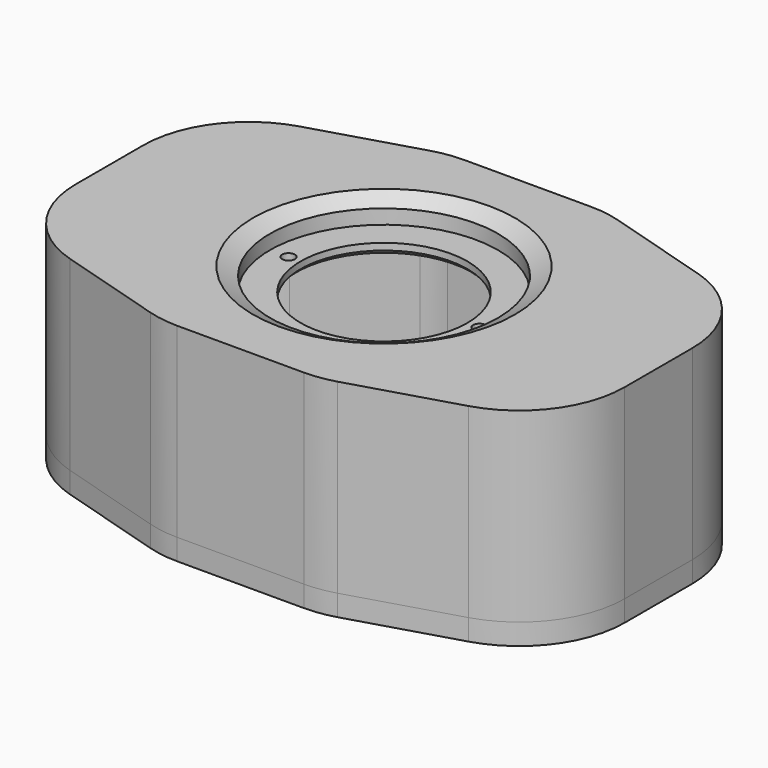
from build123d import *

# Parameters (mm, degrees)
PAD002_DEPTH    = 5
SKETCH019_R     = 35
PAD003_DEPTH    = 3
PAD001_DEPTH    = 39.1
SKETCH018_R     = 27
POCKET_DEPTH    = 5.4
SKETCH020_R     = 19.75
SKETCH020_R_2   = 1.5
POCKET001_DEPTH = 10
CHAMFER_SIZE2   = 2
CHAMFER_SIZE    = 4
CHAMFER001_SIZE = 1
PAD_DEPTH       = 5


with BuildPart() as body:
    # Sketch017 (on Sketch) → Pad002 (new body)
    with BuildSketch(Plane.XY.offset(44.1)):
        with BuildLine():
            ThreePointArc((-47.183697, 33.945657), (-60.057323, 24.923263), (-65, 10))
            Line((-65, -10), (-65, 10))
            ThreePointArc((-65, -10), (-60.057323, -24.923263), (-47.183697, -33.945657))
            Line((-22.183697, -41.445657), (-47.183697, -33.945657))
            ThreePointArc((-22.183697, -41.445657), (-18.630329, -42.23501), (-15, -42.5))
            Line((15, -42.5), (-15, -42.5))
            ThreePointArc((15, -42.5), (18.630329, -42.23501), (22.183697, -41.445657))
            Line((47.183697, -33.945657), (22.183697, -41.445657))
            ThreePointArc((47.183697, -33.945657), (60.057323, -24.923263), (65, -10))
            Line((65, 10), (65, -10))
            ThreePointArc((65, 10), (60.057323, 24.923263), (47.183697, 33.945657))
            Line((22.183697, 41.445657), (47.183697, 33.945657))
            ThreePointArc((22.183697, 41.445657), (18.630329, 42.23501), (15, 42.5))
            Line((-15, 42.5), (15, 42.5))
            ThreePointArc((-15, 42.5), (-18.630329, 42.23501), (-22.183697, 41.445657))
            Line((-47.183697, 33.945657), (-22.183697, 41.445657))
        make_face()
    extrude(amount=PAD002_DEPTH)

    # Sketch019 (on Face17 of Pad002) → Pad003 (join)
    with BuildSketch(Plane(origin=(0, 0, 44.1), x_dir=(1, 0, 0), z_dir=(0, 0, -1))):
        Circle(SKETCH019_R)
    extrude(amount=PAD003_DEPTH)

    # Sketch015 (on Sketch) → Pad001 (join)
    with BuildSketch(Plane.XY.offset(5)):
        with BuildLine():
            ThreePointArc((-47.183697, 33.945657), (-60.057323, 24.923263), (-65, 10))
            Line((-65, -10), (-65, 10))
            ThreePointArc((-65, -10), (-60.057323, -24.923263), (-47.183697, -33.945657))
            Line((-22.183697, -41.445657), (-47.183697, -33.945657))
            ThreePointArc((-22.183697, -41.445657), (-18.630329, -42.23501), (-15, -42.5))
            Line((15, -42.5), (-15, -42.5))
            ThreePointArc((15, -42.5), (18.630329, -42.23501), (22.183697, -41.445657))
            Line((47.183697, -33.945657), (22.183697, -41.445657))
            ThreePointArc((47.183697, -33.945657), (60.057323, -24.923263), (65, -10))
            Line((65, 10), (65, -10))
            ThreePointArc((65, 10), (60.057323, 24.923263), (47.183697, 33.945657))
            Line((22.183697, 41.445657), (47.183697, 33.945657))
            ThreePointArc((22.183697, 41.445657), (18.630329, 42.23501), (15, 42.5))
            Line((-15, 42.5), (15, 42.5))
            ThreePointArc((-15, 42.5), (-18.630329, 42.23501), (-22.183697, 41.445657))
            Line((-47.183697, 33.945657), (-22.183697, 41.445657))
        make_face()
        with BuildLine():
            Line((-45.746958, 29.156526), (-20.746958, 36.656526))
            ThreePointArc((-15, 37.5), (-17.904263, 37.288008), (-20.746958, 36.656526))
            Line((-15, 37.5), (15, 37.5))
            ThreePointArc((20.746958, 36.656526), (17.904263, 37.288008), (15, 37.5))
            Line((20.746958, 36.656526), (45.746958, 29.156526))
            ThreePointArc((60, 10), (56.045859, 21.938611), (45.746958, 29.156526))
            Line((60, 10), (60, -10))
            ThreePointArc((45.746958, -29.156526), (56.045859, -21.938611), (60, -10))
            Line((45.746958, -29.156526), (20.746958, -36.656526))
            ThreePointArc((15, -37.5), (17.904263, -37.288008), (20.746958, -36.656526))
            Line((15, -37.5), (-15, -37.5))
            ThreePointArc((-20.746958, -36.656526), (-17.904263, -37.288008), (-15, -37.5))
            Line((-20.746958, -36.656526), (-45.746958, -29.156526))
            ThreePointArc((-60, -10), (-56.045859, -21.938611), (-45.746958, -29.156526))
            Line((-60, -10), (-60, 10))
            ThreePointArc((-45.746958, 29.156526), (-56.045859, 21.938611), (-60, 10))
        make_face(mode=Mode.SUBTRACT)
    extrude(amount=PAD001_DEPTH)

    # Sketch018 (on Face18 of Pad002) → Pocket (cut)
    with BuildSketch(Plane.XY.offset(49.1)):
        Circle(SKETCH018_R)
    extrude(amount=-POCKET_DEPTH, mode=Mode.SUBTRACT)

    # Sketch020 (on Face52 of Pocket) → Pocket001 (cut)
    with BuildSketch(Plane.XY.offset(43.7)):
        Circle(SKETCH020_R)
        with Locations((-22.6, 0)):
            Circle(SKETCH020_R_2)
        with Locations((22.6, 0)):
            Circle(SKETCH020_R_2)
    extrude(amount=-POCKET001_DEPTH, mode=Mode.SUBTRACT)

    # Chamfer
    chamfer_edges = [body.edges().sort_by_distance(p)[0] for p in [
        (-27, 0, 49.1),
    ]]
    chamfer_side = body.faces().sort_by_distance((-58.811184, 23.996097, 49.1))[0]
    chamfer(chamfer_edges, length=CHAMFER_SIZE, length2=CHAMFER_SIZE2, reference=chamfer_side)

    # Chamfer001
    chamfer001_edges = [body.edges().sort_by_distance(p)[0] for p in [
        (-19.75, 0, 41.1),
    ]]
    chamfer(chamfer001_edges, length=CHAMFER001_SIZE)


with BuildPart() as baseplate:
    # Sketch023 (on Sketch) → Pad (new body)
    with BuildSketch(Plane.XY):
        with BuildLine():
            ThreePointArc((-47.183697, 33.945657), (-60.057323, 24.923263), (-65, 10))
            Line((-65, -10), (-65, 10))
            ThreePointArc((-65, -10), (-60.057323, -24.923263), (-47.183697, -33.945657))
            Line((-22.183697, -41.445657), (-47.183697, -33.945657))
            ThreePointArc((-22.183697, -41.445657), (-18.630329, -42.23501), (-15, -42.5))
            Line((15, -42.5), (-15, -42.5))
            ThreePointArc((15, -42.5), (18.630329, -42.23501), (22.183697, -41.445657))
            Line((47.183697, -33.945657), (22.183697, -41.445657))
            ThreePointArc((47.183697, -33.945657), (60.057323, -24.923263), (65, -10))
            Line((65, 10), (65, -10))
            ThreePointArc((65, 10), (60.057323, 24.923263), (47.183697, 33.945657))
            Line((22.183697, 41.445657), (47.183697, 33.945657))
            ThreePointArc((22.183697, 41.445657), (18.630329, 42.23501), (15, 42.5))
            Line((-15, 42.5), (15, 42.5))
            ThreePointArc((-15, 42.5), (-18.630329, 42.23501), (-22.183697, 41.445657))
            Line((-47.183697, 33.945657), (-22.183697, 41.445657))
        make_face()
    extrude(amount=PAD_DEPTH)


solid = Compound([body.part, baseplate.part])
